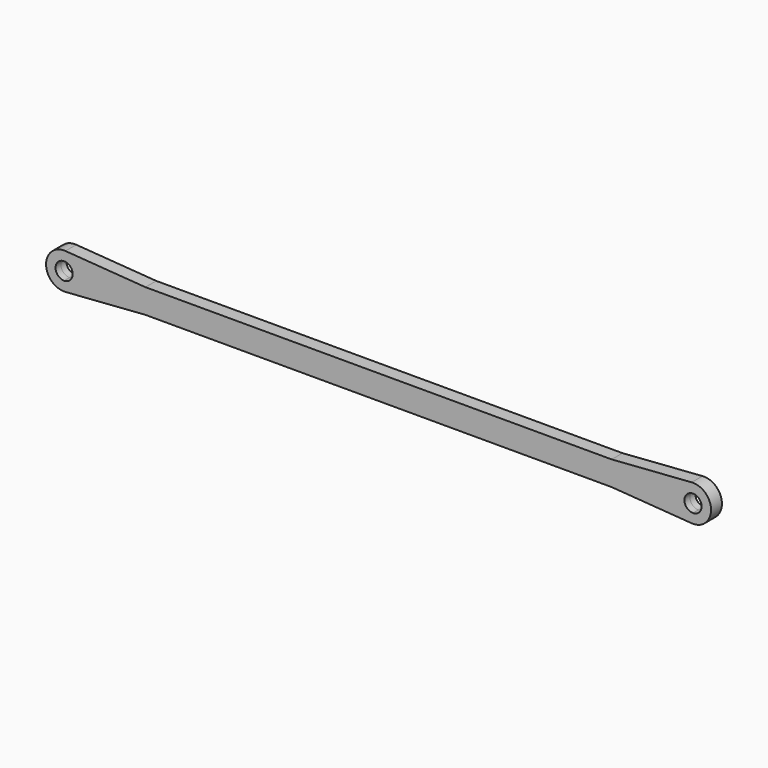
from build123d import *

# Parameters (mm, degrees)
F1_DEPTH = 7.5


with BuildPart() as f1:
    # F0 (on Front) → F1 (new body, symmetric)
    with BuildSketch(Plane.XZ):
        with BuildLine():
            Line((-348, 13.5), (-333.2436454366, 13.5))
            ThreePointArc((-333.2436454366, 13.5), (-339.2780602915, 17.997993436), (-346.5476349841, 19.9471961905))
            ThreePointArc((-346.5476349841, 19.9471961905), (-368, 0), (-346.5476349841, -19.9471961905))
            ThreePointArc((-346.5476349841, -19.9471961905), (-339.2780602915, -17.997993436), (-333.2436454366, -13.5))
            Line((-333.2436454366, -13.5), (-348, -13.5))
            Line((-348, -13.5), (-348, -9.5))
            ThreePointArc((-348, -9.5), (-357.5, 0), (-348, 9.5))
            Line((-348, 9.5), (-348, 13.5))
        make_face()
        with BuildLine():
            Line((-333.2436454366, 13.5), (-258, 13.5))
            Line((-258, 13.5), (-346.5476349841, 19.9471961905))
            ThreePointArc((-346.5476349841, 19.9471961905), (-339.2780602915, 17.997993436), (-333.2436454366, 13.5))
        make_face()
        with BuildLine():
            ThreePointArc((-333.2436454366, -13.5), (-339.2780602915, -17.997993436), (-346.5476349841, -19.9471961905))
            Line((-346.5476349841, -19.9471961905), (-258, -13.5))
            Line((-258, -13.5), (-333.2436454366, -13.5))
        make_face()
        with BuildLine():
            ThreePointArc((-328, 0), (-329.356943769, 7.24130198), (-333.2436454366, 13.5))
            Line((-333.2436454366, 13.5), (-348, 13.5))
            Line((-348, 13.5), (-348, 9.5))
            ThreePointArc((-348, 9.5), (-341.2824855787, 6.7175144213), (-338.5, 0))
            ThreePointArc((-338.5, 0), (-341.2824855787, -6.7175144213), (-348, -9.5))
            Line((-348, -9.5), (-348, -13.5))
            Line((-348, -13.5), (-333.2436454366, -13.5))
            ThreePointArc((-333.2436454366, -13.5), (-329.356943769, -7.24130198), (-328, 0))
        make_face()
        with BuildLine():
            Line((333.2436454366, 13.5), (258, 13.5))
            Line((258, 13.5), (-258, 13.5))
            Line((-258, 13.5), (-333.2436454366, 13.5))
            ThreePointArc((-333.2436454366, 13.5), (-329.356943769, 7.24130198), (-328, 0))
            ThreePointArc((-328, 0), (-329.356943769, -7.24130198), (-333.2436454366, -13.5))
            Line((-333.2436454366, -13.5), (-258, -13.5))
            Line((-258, -13.5), (258, -13.5))
            Line((258, -13.5), (333.2436454366, -13.5))
            ThreePointArc((333.2436454366, -13.5), (328, 0), (333.2436454366, 13.5))
        make_face()
        with BuildLine():
            Line((346.5476349841, 19.9471961905), (258, 13.5))
            Line((258, 13.5), (333.2436454366, 13.5))
            ThreePointArc((333.2436454366, 13.5), (339.2780602915, 17.997993436), (346.5476349841, 19.9471961905))
        make_face()
        with BuildLine():
            ThreePointArc((346.5476349841, -19.9471961905), (339.2780602915, -17.997993436), (333.2436454366, -13.5))
            Line((333.2436454366, -13.5), (258, -13.5))
            Line((258, -13.5), (346.5476349841, -19.9471961905))
        make_face()
        with BuildLine():
            Line((348, 13.5), (333.2436454366, 13.5))
            ThreePointArc((333.2436454366, 13.5), (328, 0), (333.2436454366, -13.5))
            Line((333.2436454366, -13.5), (348, -13.5))
            Line((348, -13.5), (348, -9.5))
            ThreePointArc((348, -9.5), (338.5, 0), (348, 9.5))
            Line((348, 9.5), (348, 13.5))
        make_face()
        with BuildLine():
            ThreePointArc((346.5476349841, 19.9471961905), (339.2780602915, 17.997993436), (333.2436454366, 13.5))
            Line((333.2436454366, 13.5), (348, 13.5))
            Line((348, 13.5), (348, 9.5))
            ThreePointArc((348, 9.5), (354.7175144213, 6.7175144213), (357.5, 0))
            ThreePointArc((357.5, 0), (354.7175144213, -6.7175144213), (348, -9.5))
            Line((348, -9.5), (348, -13.5))
            Line((348, -13.5), (333.2436454366, -13.5))
            ThreePointArc((333.2436454366, -13.5), (339.2780602915, -17.997993436), (346.5476349841, -19.9471961905))
            ThreePointArc((346.5476349841, -19.9471961905), (361.6189702196, -14.6466258967), (368, 0))
            ThreePointArc((368, 0), (361.6189702196, 14.6466258967), (346.5476349841, 19.9471961905))
        make_face()
    extrude(amount=F1_DEPTH, both=True)


solid = f1.part
